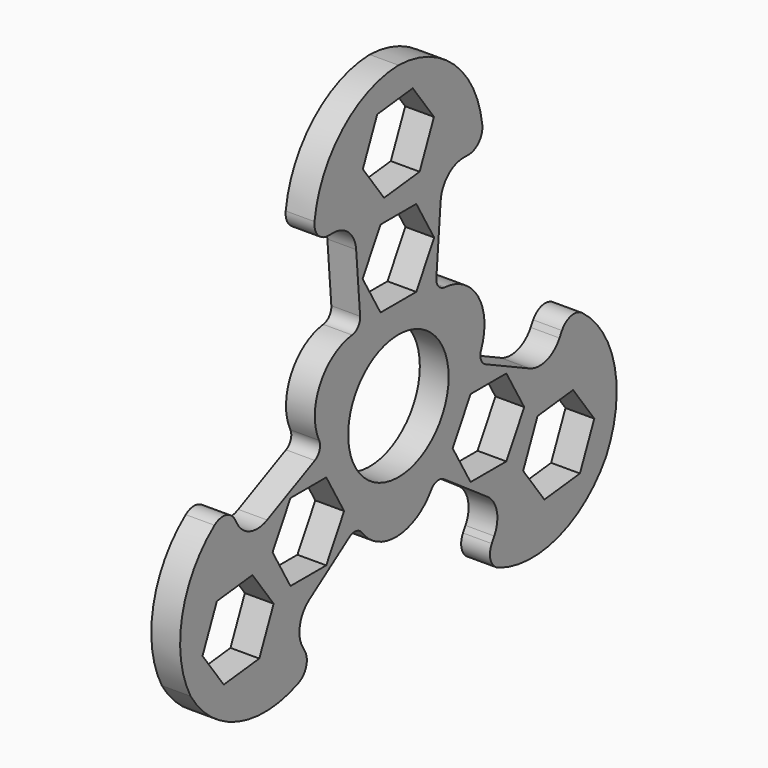
from build123d import *

# Parameters (mm, degrees)
F0_R     = 10.9
F1_DEPTH = 5


with BuildPart() as f1:
    # F0 (on Right) → F1 (new body)
    with BuildSketch(Plane.YZ):
        with BuildLine():
            Line((-9.16856, 27.604424), (-8.306591, 17.065519))
            ThreePointArc((-8.306591, 17.065519), (-8.74893, 15.639796), (-10.055313, 14.917501))
            ThreePointArc((-10.055313, 14.917501), (-17.028002, 10.161932), (-17.199707, 1.723666))
            ThreePointArc((-17.199707, 1.723666), (-17.107939, 0.1831), (-18.140222, -0.964137))
            Line((-18.140222, -0.964137), (-28.490412, -5.862006))
            ThreePointArc((-28.490412, -5.862006), (-32.119144, -6.115317), (-34.95924, -3.842497))
            Line((-34.95924, -3.842497), (-35.498432, -2.908589))
            ThreePointArc((-35.498432, -2.908589), (-37.504185, -1.467645), (-39.911359, -2.019799))
            ThreePointArc((-39.911359, -2.019799), (-46.943646, -13.068777), (-45.092936, -26.034418))
            ThreePointArc((-45.092936, -26.034418), (-34.789716, -34.120001), (-21.704877, -33.554351))
            ThreePointArc((-21.704877, -33.554351), (-20.02311, -31.745754), (-20.268128, -29.28825))
            Line((-20.268128, -29.28825), (-20.80732, -28.354341))
            ThreePointArc((-20.80732, -28.354341), (-21.355591, -24.758336), (-19.321852, -21.742418))
            Line((-19.321852, -21.742418), (-10.625877, -15.726479))
            ThreePointArc((-10.625877, -15.726479), (-9.169996, -15.396694), (-7.891278, -16.166907))
            ThreePointArc((-7.891278, -16.166907), (-0.286491, -19.827648), (7.107115, -15.757216))
            ThreePointArc((7.107115, -15.757216), (8.3954, -14.90746), (9.905079, -15.227825))
            Line((9.905079, -15.227825), (19.321852, -21.742418))
            ThreePointArc((19.321852, -21.742418), (21.355591, -24.758336), (20.80732, -28.354341))
            Line((20.80732, -28.354341), (20.268128, -29.28825))
            ThreePointArc((20.268128, -29.28825), (20.02311, -31.745754), (21.704877, -33.554351))
            ThreePointArc((21.704877, -33.554351), (34.789716, -34.120001), (45.092936, -26.034418))
            ThreePointArc((45.092936, -26.034418), (46.943646, -13.068777), (39.911359, -2.019799))
            ThreePointArc((39.911359, -2.019799), (37.504185, -1.467645), (35.498432, -2.908589))
            Line((35.498432, -2.908589), (34.95924, -3.842497))
            ThreePointArc((34.95924, -3.842497), (32.119144, -6.115317), (28.490412, -5.862006))
            Line((28.490412, -5.862006), (18.932469, -1.339041))
            ThreePointArc((18.932469, -1.339041), (17.918926, -0.243103), (17.946592, 1.249406))
            ThreePointArc((17.946592, 1.249406), (17.314492, 9.665716), (10.092592, 14.03355))
            ThreePointArc((10.092592, 14.03355), (8.712539, 14.724359), (8.235144, 16.191962))
            Line((8.235144, 16.191962), (9.16856, 27.604424))
            ThreePointArc((9.16856, 27.604424), (10.763552, 30.873653), (14.15192, 32.196838))
            Line((14.15192, 32.196838), (15.230304, 32.196838))
            ThreePointArc((15.230304, 32.196838), (17.481075, 33.213399), (18.206482, 35.574151))
            ThreePointArc((18.206482, 35.574151), (12.15393, 47.188779), (0, 52.068837))
            ThreePointArc((0, 52.068837), (-12.15393, 47.188779), (-18.206482, 35.574151))
            ThreePointArc((-18.206482, 35.574151), (-17.481075, 33.213399), (-15.230304, 32.196838))
            Line((-15.230304, 32.196838), (-14.15192, 32.196838))
            ThreePointArc((-14.15192, 32.196838), (-10.763552, 30.873653), (-9.16856, 27.604424))
        make_face()
        Polygon((-30.1891, -26.341452), (-37.906917, -27.199435), (-42.50886, -20.944601), (-39.392987, -13.831784), (-31.67517, -12.973801), (-27.073227, -19.228635), align=None, mode=Mode.SUBTRACT)
        Polygon((-23.427465, -18.009187), (-27.310145, -11.284187), (-23.427465, -4.559187), (-15.662104, -4.559187), (-11.779423, -11.284187), (-15.662104, -18.009187), align=None, mode=Mode.SUBTRACT)
        Polygon((37.906917, -12.973801), (42.50886, -19.228635), (39.392987, -26.341452), (31.67517, -27.199435), (27.073227, -20.944601), (30.1891, -13.831784), align=None, mode=Mode.SUBTRACT)
        Circle(F0_R, mode=Mode.SUBTRACT)
        Polygon((27.310145, -11.284187), (23.427465, -18.009187), (15.662104, -18.009187), (11.779423, -11.284187), (15.662104, -4.559187), (23.427465, -4.559187), align=None, mode=Mode.SUBTRACT)
        Polygon((-7.765361, 22.568373), (-3.882681, 29.293373), (3.882681, 29.293373), (7.765361, 22.568373), (3.882681, 15.843373), (-3.882681, 15.843373), align=None, mode=Mode.SUBTRACT)
        Polygon((-3.115874, 33.06042), (-7.717817, 39.315254), (-4.601943, 46.428071), (3.115874, 47.286054), (7.717817, 41.03122), (4.601943, 33.918403), align=None, mode=Mode.SUBTRACT)
    extrude(amount=F1_DEPTH)


solid = f1.part
